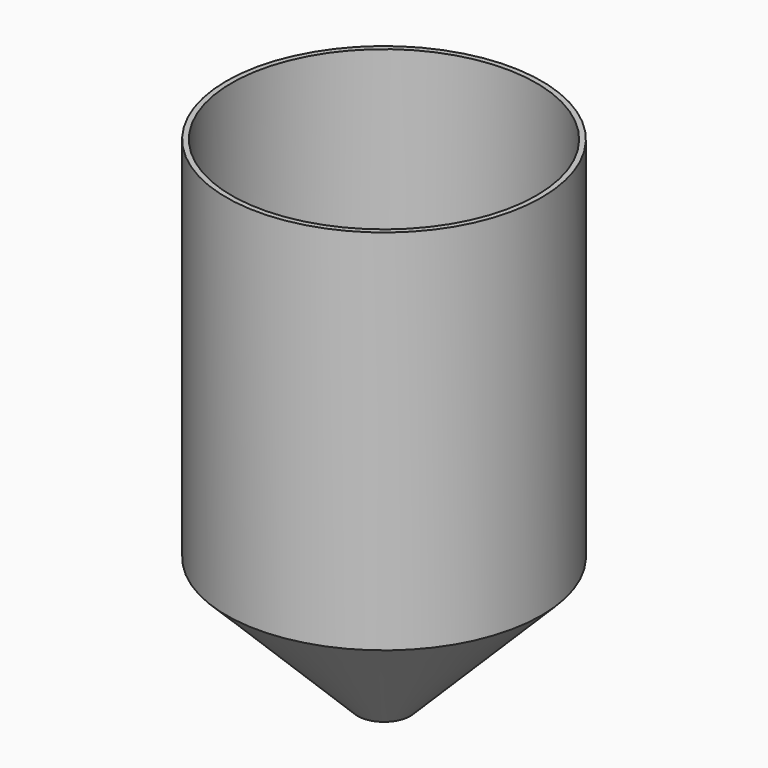
from build123d import *

# Parameters (mm, degrees)
F0_R     = 76.2
F1_DEPTH = 254
F2_SIZE  = 76.2
F4_T     = -2.54
F5_D     = 25.4


with BuildPart() as f1:
    # F0 (on Top) → F1 (new body)
    with BuildSketch(Plane.XY):
        Circle(F0_R)
    extrude(amount=F1_DEPTH)

    # F2
    f2_edges = [f1.edges().sort_by_distance(p)[0] for p in [
        (-76.2, 0, 0),
    ]]
    chamfer(f2_edges, length=F2_SIZE)

    # F4
    f4_openings = [f1.faces().sort_by_distance(p)[0] for p in [
        (0, 0, 254),
    ]]
    offset(amount=F4_T, openings=f4_openings)

    # F5 (through all)
    with Locations(Plane(origin=(0, 0, 0), x_dir=(1, 0, 0), z_dir=(0, 0, -1))):
        with Locations((0, 0)):
            Hole(F5_D / 2)


solid = f1.part
